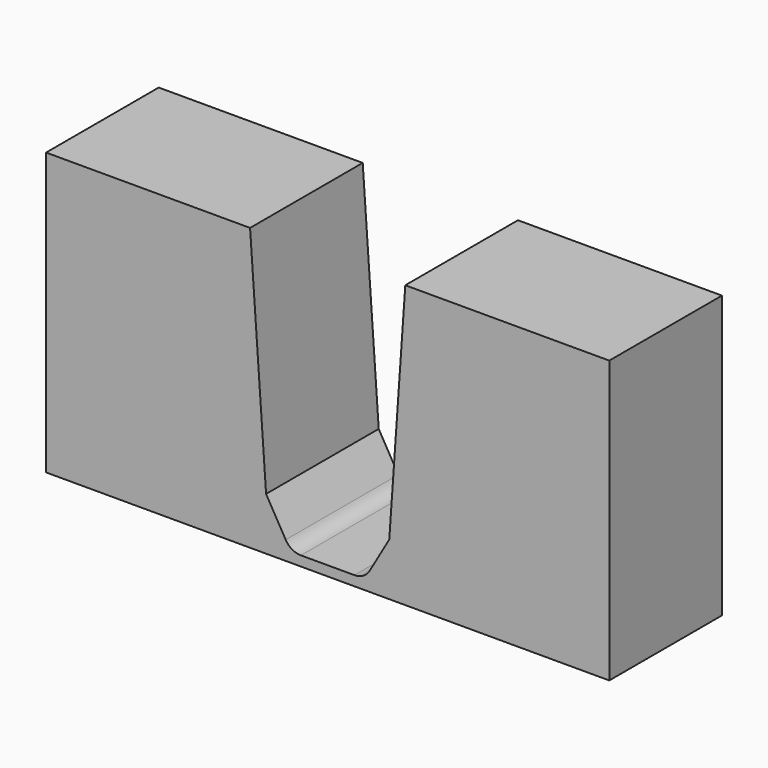
from build123d import *

# Parameters (mm, degrees)
F1_DEPTH = 25.4


with BuildPart() as f1:
    # F0 (on Front) → F1 (new body)
    with BuildSketch(Plane.XZ):
        with BuildLine():
            Line((-50.8, 0), (0, 0))
            Line((0, 0), (0, 1.778))
            Line((0, 1.778), (-4.826, 1.778))
            ThreePointArc((-4.826, 1.778), (-6.4135, 2.203369), (-7.575631, 3.3655))
            Line((-7.575631, 3.3655), (-11.1125, 9.491537))
            Line((-11.1125, 9.491537), (-14.001069, 50.8))
            Line((-14.001069, 50.8), (-50.8, 50.8))
            Line((-50.8, 50.8), (-50.8, 0))
        make_face()
    extrude(amount=F1_DEPTH)

    # F2: F1 across plane


with BuildPart() as f1_1:
    add(f1.part)
    add(f1.part.mirror(Plane.YZ))


solid = f1_1.part
